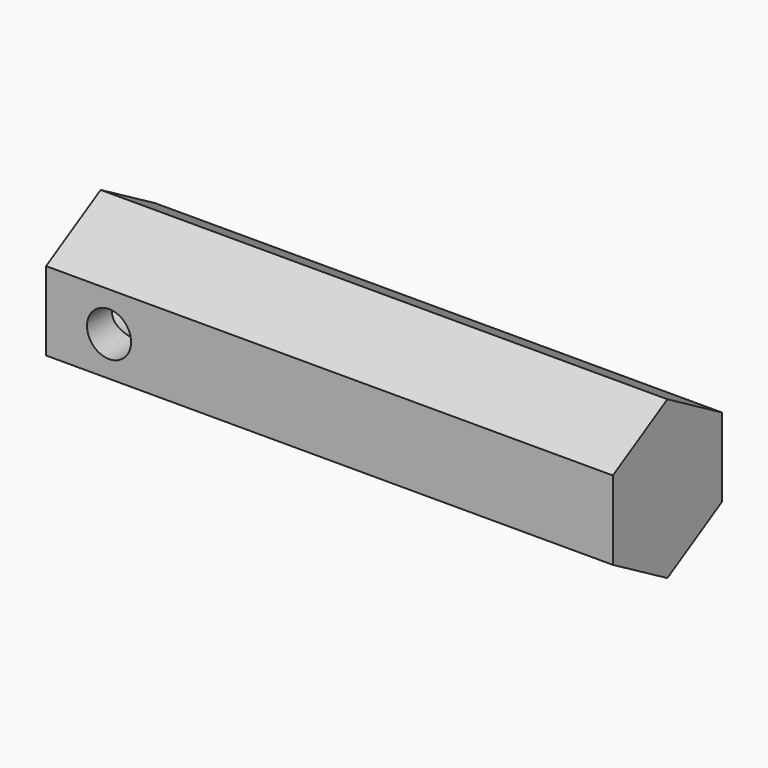
from build123d import *

# Parameters (mm, degrees)
SKETCH205_R          = 1.4
PAD127041_DEPTH      = 10
SKETCH175_R          = 2.35
PAD127013_DEPTH      = 100
PAD127012_DEPTH      = 100
PAD127040_DEPTH      = 20
PAD127040_DEPTH_BACK = 16


with BuildPart() as setscrewcutout:
    # Sketch205 → Pad127041 (new body, symmetric)
    with BuildSketch(Plane(origin=(55, 0, 0), x_dir=(1, 0, 0), z_dir=(0, -1, 0))):
        with Locations((-12, 0)):
            Circle(SKETCH205_R)
    extrude(amount=PAD127041_DEPTH, both=True)


with BuildPart() as obj1:
    # Sketch175 → Pad127013 (new body)
    with BuildSketch(Plane.YZ.offset(50)):
        Circle(SKETCH175_R)
    extrude(amount=-PAD127013_DEPTH)


with BuildPart() as axlecutout:
    # Sketch176 → Pad127012 (new body)
    with BuildSketch(Plane.YZ.offset(55)):
        with BuildLine():
            ThreePointArc((-1.74356, 1.5), (0, -2.3), (1.74356, 1.5))
            ThreePointArc((-1.74356, 1.5), (0, 1.404716), (1.74356, 1.5))
        make_face()
    extrude(amount=-PAD127012_DEPTH)

    # Fusion004020013: union obj1
    add(obj1.part)


with BuildPart() as adapteraxle:
    # Sketch204 → Pad127040 (new body, two sides)
    with BuildSketch(Plane.YZ.offset(55)) as pad127040_sk:
        Polygon((4.330127, 2.5), (0, 5), (-4.330127, 2.5), (-4.330127, -2.5), (0, -5), (4.330127, -2.5), align=None)
    extrude(amount=PAD127040_DEPTH)
    extrude(pad127040_sk.sketch, amount=-PAD127040_DEPTH_BACK)

    # Cut007019024: cut AxleCutout
    add(axlecutout.part, mode=Mode.SUBTRACT)

    # Cut007019025: cut SetScrewCutout
    add(setscrewcutout.part, mode=Mode.SUBTRACT)


solid = adapteraxle.part
